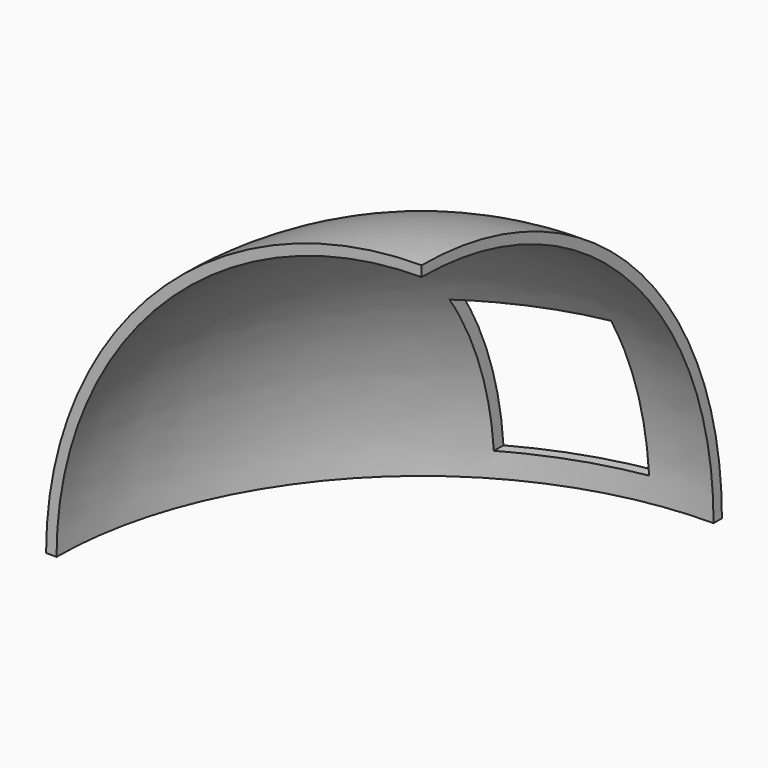
from build123d import *

# Parameters (mm, degrees)
F1_ANGLE = 90
F2_W     = 73.601034
F2_H     = 94.799207
F3_DEPTH = 285.242


with BuildPart() as f1:
    # F0 (on Front) → F1 (revolve)
    with BuildSketch(Plane.XZ):
        with BuildLine():
            Line((0, 222.25), (0, 228.6))
            ThreePointArc((0, 228.6), (-161.64461, 161.64461), (-228.6, 0))
            Line((-228.6, 0), (-222.25, 0))
            ThreePointArc((-222.25, 0), (-157.154482, 157.154482), (0, 222.25))
        make_face()
    revolve(axis=Axis((0, 0, 114.3), (0, 0, -1)), revolution_arc=F1_ANGLE)

    # F2 (on Front) → F3 (cut)
    with BuildSketch(Plane.XZ):
        with Locations((-73.204072, 62.498218)):
            Rectangle(F2_W, F2_H)
    extrude(amount=-F3_DEPTH, mode=Mode.SUBTRACT)


solid = f1.part
